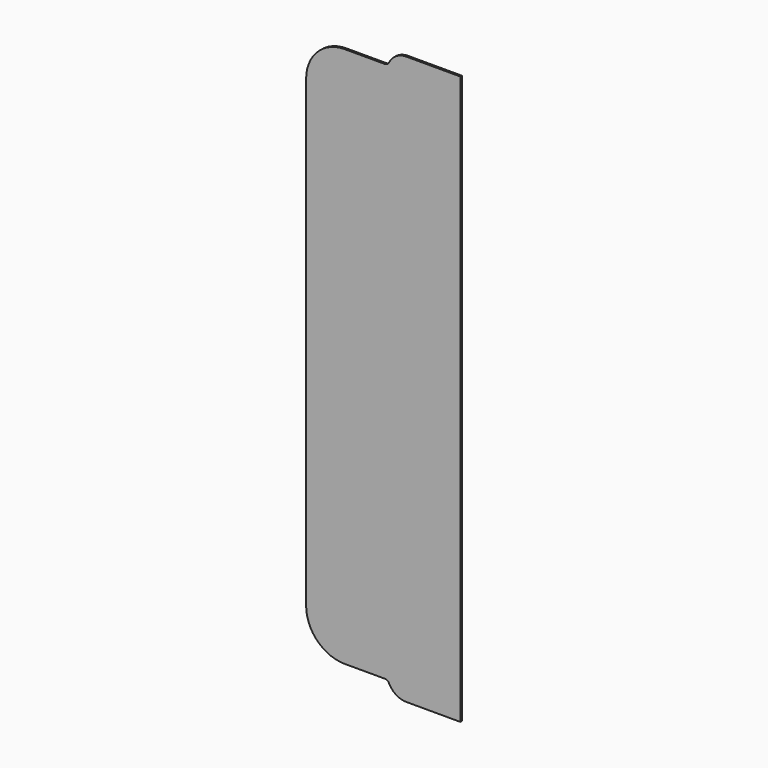
from build123d import *

# Parameters (mm, degrees)
F1_DEPTH = 1


with BuildPart() as f1:
    # F0 (on Front) → F1 (new body)
    with BuildSketch(Plane.XZ):
        with BuildLine():
            Line((0, 120.4), (0, 0))
            Line((0, 0), (0, -120.4))
            ThreePointArc((0, -120.4), (5.857864, -134.542136), (20, -140.4))
            Line((20, -140.4), (40.775028, -140.4))
            ThreePointArc((40.775028, -140.4), (42.097903, -140.77868), (43.020022, -141.8))
            ThreePointArc((43.020022, -141.8), (46.708497, -145.885281), (52, -147.4))
            Line((52, -147.4), (80, -147.4))
            Line((80, -147.4), (80, 0))
            Line((80, 0), (80, 147.4))
            Line((80, 147.4), (52, 147.4))
            ThreePointArc((52, 147.4), (46.708497, 145.885281), (43.020022, 141.8))
            ThreePointArc((43.020022, 141.8), (42.097903, 140.77868), (40.775028, 140.4))
            Line((40.775028, 140.4), (20, 140.4))
            ThreePointArc((20, 140.4), (5.857864, 134.542136), (0, 120.4))
        make_face()
    extrude(amount=F1_DEPTH)


solid = f1.part
